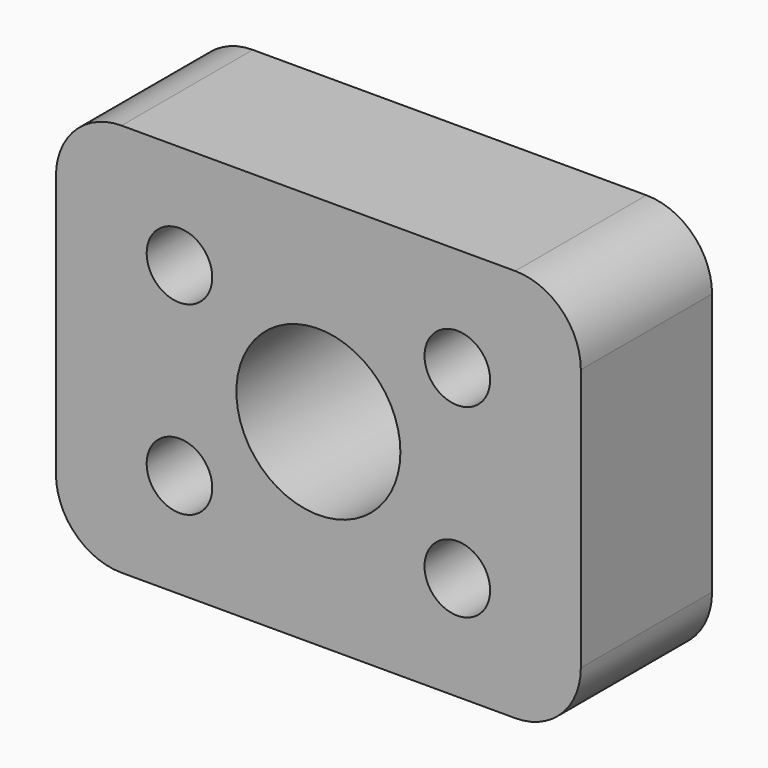
from build123d import *

# Parameters (mm, degrees)
F0_W     = 80
F0_H     = 60
F1_DEPTH = 12.5
F2_R     = 12.5
F3_DEPTH = 25
F4_R     = 10
F6_D     = 10


with BuildPart() as f1:
    # F0 (on Front) → F1 (new body, symmetric)
    with BuildSketch(Plane.XZ):
        Rectangle(F0_W, F0_H)
    extrude(amount=F1_DEPTH, both=True)

    # F2 (on face) → F3 (cut, through all)
    with BuildSketch(Plane.XZ.offset(12.5)):
        Circle(F2_R)
    extrude(amount=-F3_DEPTH, mode=Mode.SUBTRACT)

    # F4
    f4_edges = [f1.edges().sort_by_distance(p)[0] for p in [
        (-40, 0, 30),
        (40, 0, 30),
        (40, 0, -30),
        (-40, 0, -30),
    ]]
    fillet(f4_edges, radius=F4_R)

    # F6 (through all)
    with Locations(Plane.XZ.offset(12.5)):
        with Locations((-21.176471, 14.117647), (-21.176471, -14.117647), (21.176471, 14.117647), (21.176471, -14.117647)):
            Hole(F6_D / 2)


solid = f1.part
